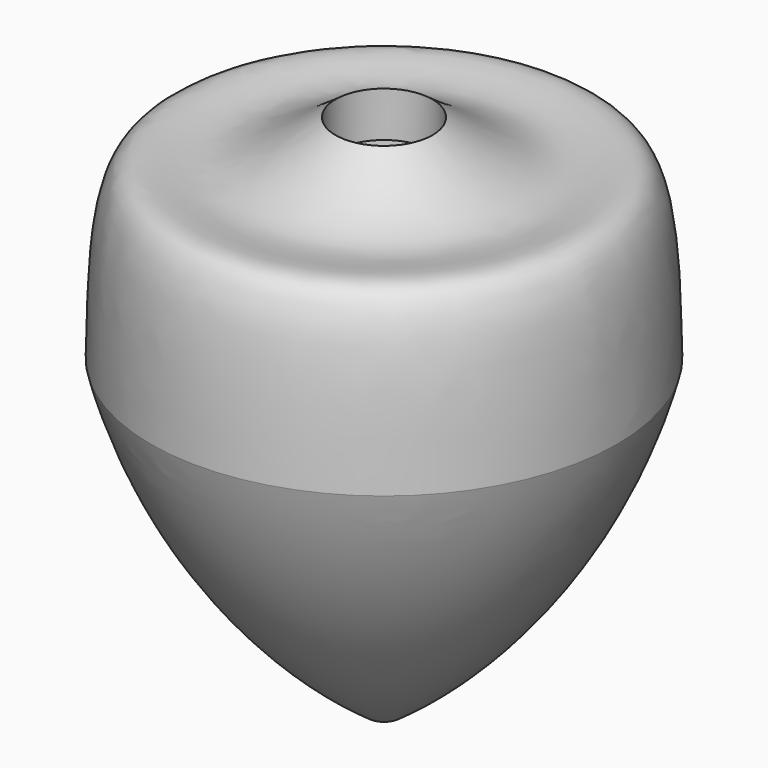
from build123d import *


with BuildPart() as f1:
    # F0 (on Front) → F1 (revolve)
    with BuildSketch(Plane.XZ):
        with BuildLine():
            Line((0, 22.9183282804), (0, 17.145))
            Line((0, 17.145), (1.5875, 17.145))
            Line((1.5875, 17.145), (1.5875, 0))
            ThreePointArc((1.5875, 0), (14.9446864342, 13.4243517798), (22.8827835718, 30.617788434))
            add(Edge.make_bspline(
                [(4.7625, 51.4484420419), (7.8913899724, 49.2019532711), (13.4225194561, 45.2306981663), (22.5219255179, 50.0542947434), (22.744264662, 38.0786823647), (22.8827835718, 30.617788434)],
                knots=[0, 0, 0, 0, 0.3293221235, 0.5821627872, 1, 1, 1, 1], degree=3))
            Line((4.7625, 51.4484420419), (4.7625, 47.0034420419))
            Line((4.7625, 47.0034420419), (0, 47.0034420419))
            Line((0, 47.0034420419), (0, 22.9183282804))
        make_face()
    revolve(axis=Axis((0, 0, 11.4591641402), (0, 0, 1)))


solid = f1.part
